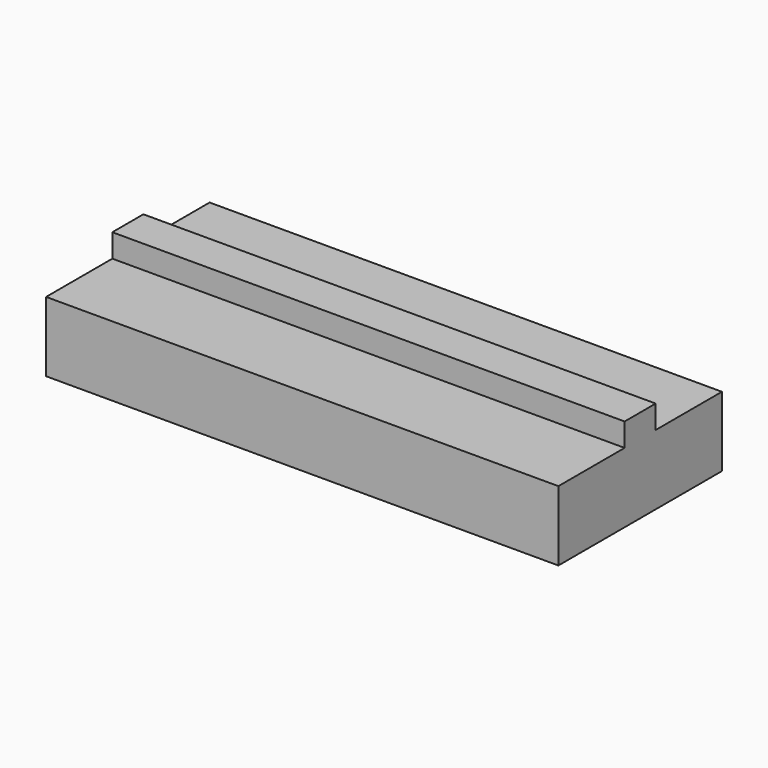
from build123d import *

# Parameters (mm, degrees)
F0_W     = 19.8
F0_H     = 1.5
F1_DEPTH = 0.9
F2_W     = 19.8
F2_H     = 7.9
F3_DEPTH = 2.7
F4_R     = 1.6
F5_DEPTH = 1.2


with BuildPart() as f1:
    # F0 (on Top) → F1 (new body)
    with BuildSketch(Plane.XY):
        Rectangle(F0_W, F0_H)
    extrude(amount=F1_DEPTH)

    # F2 (on face) → F3 (join)
    with BuildSketch(Plane(origin=(0, 0, 0), x_dir=(1, 0, 0), z_dir=(0, 0, -1))):
        Rectangle(F2_W, F2_H)
    extrude(amount=F3_DEPTH)

    # F4 (on face) → F5 (cut)
    with BuildSketch(Plane(origin=(0, 0, -2.7), x_dir=(1, 0, 0), z_dir=(0, 0, -1))):
        with Locations((-5, 0)):
            Circle(F4_R)
        with Locations((5, 0)):
            Circle(F4_R)
    extrude(amount=-F5_DEPTH, mode=Mode.SUBTRACT)


solid = f1.part
